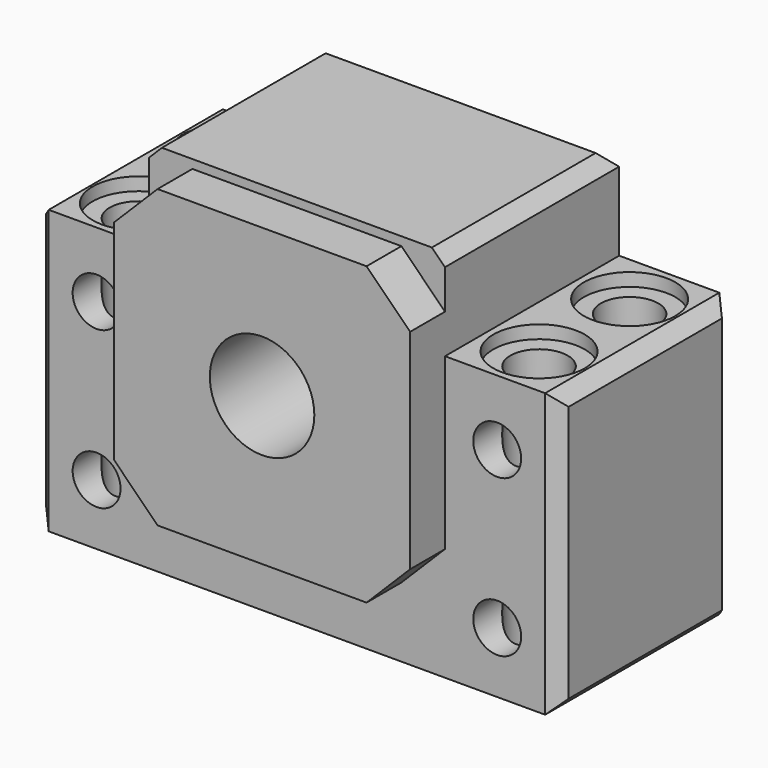
from build123d import *

# Parameters (mm, degrees)
F0_R      = 2.75
F0_R_2    = 13
F1_DEPTH  = 25
F2_W      = 34
F2_H      = 34
F2_R      = 13
F3_DEPTH  = 5
F4_SIZE   = 5
F5_SIZE   = 1.5
F6_R      = 3.3
F7_DEPTH  = 32.501
F8_R      = 13
F8_R_2    = 6
F9_DEPTH  = 30
F10_R     = 5.25
F11_DEPTH = 1.5


with BuildPart() as f1:
    # F0 (on Front) → F1 (new body)
    with BuildSketch(Plane.XZ):
        Polygon((-30, -25), (30, -25), (30, 7.5), (17, 7.5), (17, 18), (-17, 18), (-17, 7.5), (-30, 7.5), align=None)
        with Locations((-23, -18)):
            Circle(F0_R, mode=Mode.SUBTRACT)
        with Locations((23, -18)):
            Circle(F0_R, mode=Mode.SUBTRACT)
        with Locations((-23, 0)):
            Circle(F0_R, mode=Mode.SUBTRACT)
        Circle(F0_R_2, mode=Mode.SUBTRACT)
        with Locations((23, 0)):
            Circle(F0_R, mode=Mode.SUBTRACT)
    extrude(amount=F1_DEPTH)

    # F2 (on face) → F3 (join)
    with BuildSketch(Plane.XZ.offset(25)):
        Rectangle(F2_W, F2_H)
        Circle(F2_R, mode=Mode.SUBTRACT)
    extrude(amount=F3_DEPTH)

    # F4
    f4_edges = [f1.edges().sort_by_distance(p)[0] for p in [
        (-17, -27.5, 17),
        (17, -27.5, 17),
        (17, -27.5, -17),
        (-17, -27.5, -17),
    ]]
    chamfer(f4_edges, length=F4_SIZE)

    # F5
    f5_edges = [f1.edges().sort_by_distance(p)[0] for p in [
        (-17, -12.5, 18),
        (17, -12.5, 18),
        (0, 0, 18),
        (-30, -12.5, 7.5),
        (-30, -25, -8.75),
        (-30, 0, -8.75),
        (-30, -12.5, -25),
        (30, -25, -8.75),
        (30, -12.5, 7.5),
        (30, 0, -8.75),
        (30, -12.5, -25),
    ]]
    chamfer(f5_edges, length=F5_SIZE)

    # F6 (on face) → F7 (cut, through all)
    with BuildSketch(Plane.XY.offset(7.5)):
        with Locations((23, -6)):
            Circle(F6_R)
        with Locations((23, -19)):
            Circle(F6_R)
        with Locations((-23, -19)):
            Circle(F6_R)
        with Locations((-23, -6)):
            Circle(F6_R)
    extrude(amount=-F7_DEPTH, mode=Mode.SUBTRACT)

    # F8 (on face) → F9 (join, through all)
    with BuildSketch(Plane.XZ.offset(30)):
        Circle(F8_R)
        Circle(F8_R_2, mode=Mode.SUBTRACT)
    extrude(amount=-F9_DEPTH)

    # F10 (on face) → F11 (cut)
    with BuildSketch(Plane.XY.offset(7.5)):
        with Locations((-23, -6)):
            Circle(F10_R)
        with Locations((-23, -19)):
            Circle(F10_R)
        with Locations((23, -6)):
            Circle(F10_R)
        with Locations((23, -19)):
            Circle(F10_R)
    extrude(amount=-F11_DEPTH, mode=Mode.SUBTRACT)


solid = f1.part
